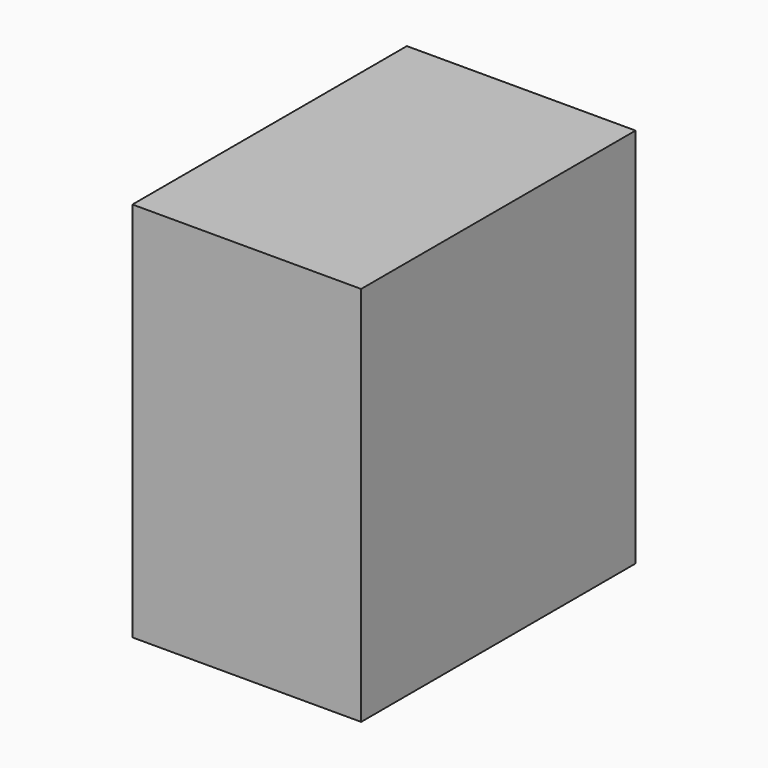
from build123d import *

# Parameters (mm, degrees)
SKETCH_W  = 30
SKETCH_H  = 45
PAD_DEPTH = 50


with BuildPart() as part:
    # Sketch → Pad (new body)
    with BuildSketch(Plane.XY):
        with Locations((1.12329, -7.008038)):
            Rectangle(SKETCH_W, SKETCH_H)
    extrude(amount=PAD_DEPTH)


solid = part.part
